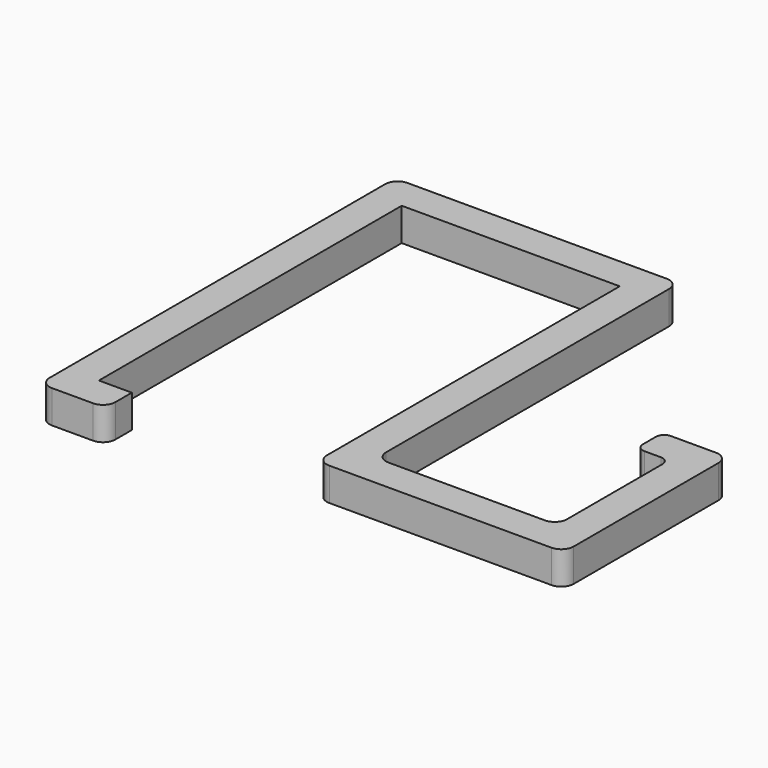
from build123d import *

# Parameters (mm, degrees)
F2_DEPTH = 8


with BuildPart() as f2:
    # F1 (on Top) → F2 (new body)
    with BuildSketch(Plane.XY):
        with BuildLine():
            Line((8, 0), (0, 0))
            Line((0, 0), (0, 92))
            Line((0, 92), (53, 92))
            Line((53, 92), (53, 3))
            ThreePointArc((53, 3), (53.8786796564, 0.8786796564), (56, 0))
            Line((56, 0), (110, 0))
            ThreePointArc((110, 0), (112.1213203436, 0.8786796564), (113, 3))
            Line((113, 3), (113, 47))
            ThreePointArc((113, 47), (112.1213203436, 49.1213203436), (110, 50))
            Line((110, 50), (105, 50))
            Line((105, 50), (99, 50))
            ThreePointArc((99, 50), (97.5857864376, 49.4142135624), (97, 48))
            Line((97, 48), (97, 44))
            ThreePointArc((97, 44), (97.5857864376, 42.5857864376), (99, 42))
            Line((99, 42), (103, 42))
            ThreePointArc((103, 42), (104.4142135624, 41.4142135624), (105, 40))
            Line((105, 40), (105, 11))
            ThreePointArc((105, 11), (104.1213203436, 8.8786796564), (102, 8))
            Line((102, 8), (64, 8))
            ThreePointArc((64, 8), (61.8786796564, 8.8786796564), (61, 11))
            Line((61, 11), (61, 97))
            ThreePointArc((61, 97), (60.1213203436, 99.1213203436), (58, 100))
            Line((58, 100), (-5, 100))
            ThreePointArc((-5, 100), (-7.1213203436, 99.1213203436), (-8, 97))
            Line((-8, 97), (-8, 0))
            Line((-8, 0), (-8, -5))
            ThreePointArc((-8, -5), (-7.1213203436, -7.1213203436), (-5, -8))
            Line((-5, -8), (5, -8))
            ThreePointArc((5, -8), (7.1213203436, -7.1213203436), (8, -5))
            Line((8, -5), (8, 0))
        make_face()
    extrude(amount=F2_DEPTH)


solid = f2.part
